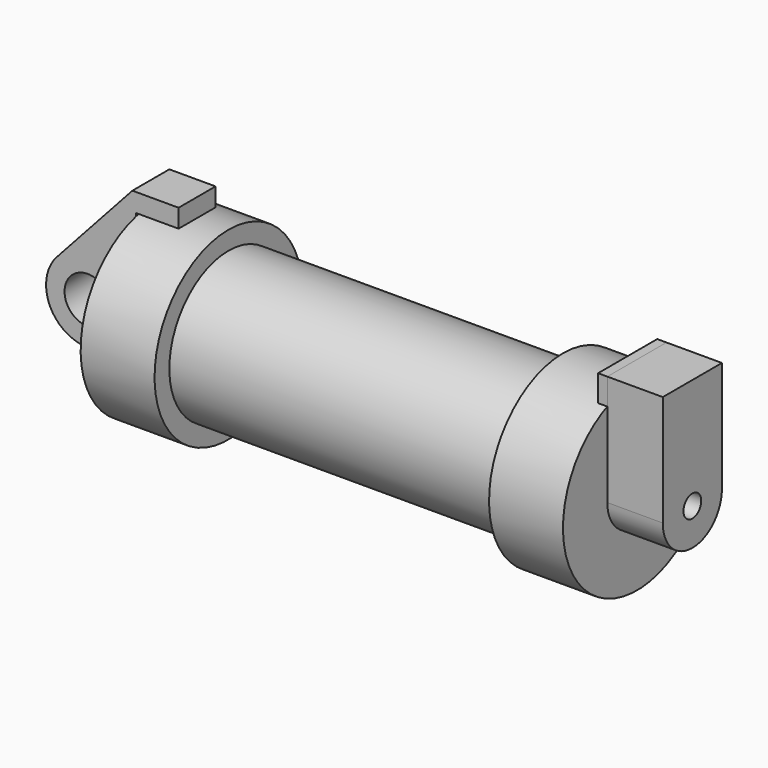
from build123d import *

# Parameters (mm, degrees)
F0_W     = 5.842
F0_H     = 12.7
F0_R     = 3.175
F2_DEPTH = 3.175
F3_R     = 1.524
F4_DEPTH = 7.62
F5_DEPTH = 1.27


with BuildPart() as f1:
    # F0 (on Front) → F1 (revolve)
    with BuildSketch(Plane.XZ):
        with Locations((2.921, 6.35)):
            Rectangle(F0_W, F0_H)
        Polygon((5.842, 12.7), (5.842, 0), (66.294, 0), (66.294, 12.7), (56.134, 12.7), (56.134, 10.16), (10.16, 10.16), (10.16, 12.7), align=None)
    revolve(axis=Axis((33.147, 0, 0), (-1, 0, 0)))


with BuildPart() as f2:
    # F0 (on Front) → F2 (new body, symmetric)
    with BuildSketch(Plane.XZ):
        with BuildLine():
            Line((-0.9398, 0), (0, 0))
            Line((0, 0), (0, 12.7))
            Line((0, 12.7), (5.842, 12.7))
            Line((5.842, 12.7), (5.842, 15.24))
            Line((5.842, 15.24), (-0.508, 15.24))
            Line((-0.508, 15.24), (-10.8806298187, 3.8475430269))
            ThreePointArc((-10.8806298187, 3.8475430269), (-4.5919612295, 5.3297205562), (-0.9398, 0))
        make_face()
        with BuildLine():
            ThreePointArc((-8.1826630726, -5.5069827884), (-3.1957909266, -4.5493385486), (-0.9398, 0))
            ThreePointArc((-0.9398, 0), (-4.5919612295, 5.3297205562), (-10.8806298187, 3.8475430269))
            ThreePointArc((-10.8806298187, 3.8475430269), (-12.1459778134, -1.5837270034), (-8.1826630726, -5.5069827884))
        make_face()
        with Locations((-6.6548, 0)):
            Circle(F0_R, mode=Mode.SUBTRACT)
        with BuildLine():
            Line((5.842, 0), (0, 0))
            Line((0, 0), (-0.9398, 0))
            ThreePointArc((-0.9398, 0), (-3.1957909266, -4.5493385486), (-8.1826630726, -5.5069827884))
            Line((-8.1826630726, -5.5069827884), (5.842, -9.398))
            Line((5.842, -9.398), (5.842, 0))
        make_face()
    extrude(amount=F2_DEPTH, both=True)


with BuildPart() as f4:
    # F3 (on face) → F4 (new body)
    with BuildSketch(Plane.YZ.offset(66.294)):
        with BuildLine():
            ThreePointArc((-5.08, 11.6397422652), (0, 12.7), (5.08, 11.6397422652))
            Line((5.08, 11.6397422652), (5.08, 15.24))
            Line((5.08, 15.24), (-5.08, 15.24))
            Line((-5.08, 15.24), (-5.08, 11.6397422652))
        make_face()
        with BuildLine():
            ThreePointArc((-5.08, 0), (0, 5.08), (5.08, 0))
            Line((5.08, 0), (5.08, 11.6397422652))
            ThreePointArc((5.08, 11.6397422652), (0, 12.7), (-5.08, 11.6397422652))
            Line((-5.08, 11.6397422652), (-5.08, 0))
        make_face()
        with BuildLine():
            ThreePointArc((-5.08, 0), (0, -5.08), (5.08, 0))
            ThreePointArc((5.08, 0), (0, 5.08), (-5.08, 0))
        make_face()
        Circle(F3_R, mode=Mode.SUBTRACT)
    extrude(amount=F4_DEPTH)


with BuildPart() as f5:
    # F5 (new): a face of the model
    f5_faces = [f4.part.faces().sort_by_distance(p)[0] for p in [
        (66.294, 0, 5.8085929676),
    ]]
    extrude(f5_faces, amount=F5_DEPTH)


solid = Compound([f1.part, f2.part, f4.part, f5.part])
